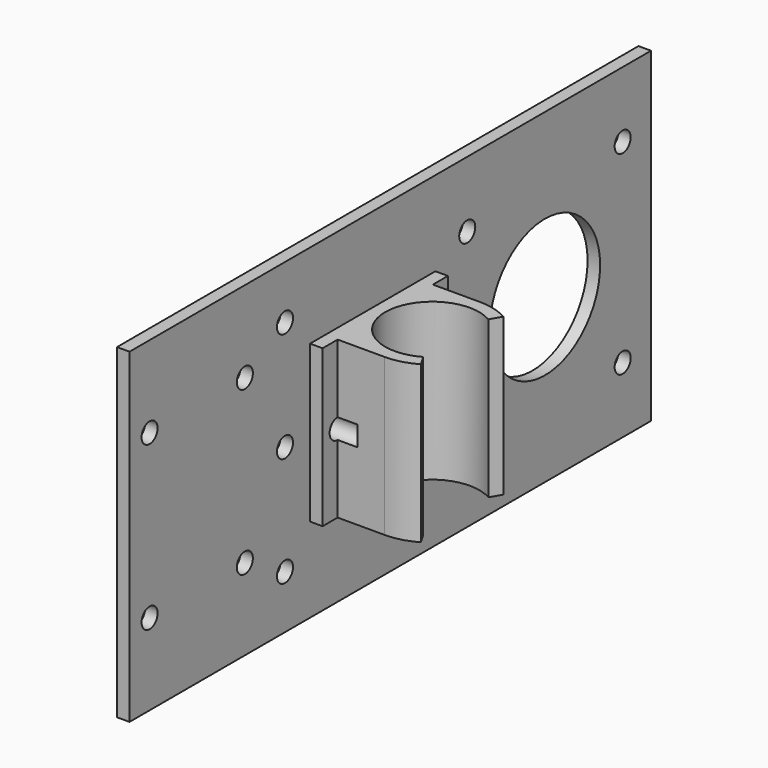
from build123d import *

# Parameters (mm, degrees)
F5_DEPTH = 12.5
F6_R     = 1.6
F7_DEPTH = 5.2
F4_R     = 1.6
F4_R_2   = 11
F8_DEPTH = 2


with BuildPart() as f5:
    # F1 (on Top) → F5 (new body, symmetric)
    with BuildSketch(Plane.XY):
        with BuildLine():
            Line((-20, 30), (-20, 17.5))
            Line((-20, 17.5), (-20, 5))
            Line((-20, 5), (-18, 5))
            Line((-18, 5), (-18, 8))
            Line((-18, 8), (-10.5, 8))
            ThreePointArc((-10.5, 8), (-8.0412190715, 8.3237046503), (-5.75, 9.272758664))
            Line((-5.75, 9.272758664), (-6.75, 11.0048094716))
            ThreePointArc((-6.75, 11.0048094716), (-14.25, 11.0048094716), (-18, 17.5))
            ThreePointArc((-18, 17.5), (-14.25, 23.9951905284), (-6.75, 23.9951905284))
            Line((-6.75, 23.9951905284), (-5.75, 25.727241336))
            ThreePointArc((-5.75, 25.727241336), (-8.0412190715, 26.6762953497), (-10.5, 27))
            Line((-10.5, 27), (-18, 27))
            Line((-18, 27), (-18, 30))
            Line((-18, 30), (-20, 30))
        make_face()
    extrude(amount=F5_DEPTH, both=True)

    # F6 (on face) → F7 (cut)
    with BuildSketch(Plane(origin=(-20, 0, 0), x_dir=(0, -1, 0), z_dir=(-1, 0, 0))):
        with Locations((-27, 0)):
            Circle(F6_R)
        with Locations((-8, 0)):
            Circle(F6_R)
    extrude(amount=-F7_DEPTH, mode=Mode.SUBTRACT)


with BuildPart() as f8:
    # F4 (on line) → F8 (new body)
    with BuildSketch(Plane.YZ.offset(-20)):
        Polygon((30, 26), (-30, 26), (-31, 26), (-31, -26), (-30, -26), (30, -26), (73, -26), (73, 26), align=None)
        with Locations((0, -17.5)):
            Circle(F4_R, mode=Mode.SUBTRACT)
        with Locations((-27, -13)):
            Circle(F4_R, mode=Mode.SUBTRACT)
        with Locations((-8, -13)):
            Circle(F4_R, mode=Mode.SUBTRACT)
        with Locations((36.35, -15.5)):
            Circle(F4_R, mode=Mode.SUBTRACT)
        with Locations((67.35, -15.5)):
            Circle(F4_R, mode=Mode.SUBTRACT)
        Circle(F4_R, mode=Mode.SUBTRACT)
        with Locations((8, 0)):
            Circle(F4_R, mode=Mode.SUBTRACT)
        with Locations((-27, 13)):
            Circle(F4_R, mode=Mode.SUBTRACT)
        with Locations((-8, 13)):
            Circle(F4_R, mode=Mode.SUBTRACT)
        with Locations((0, 17.5)):
            Circle(F4_R, mode=Mode.SUBTRACT)
        with Locations((27, 0)):
            Circle(F4_R, mode=Mode.SUBTRACT)
        with Locations((51.85, 0)):
            Circle(F4_R_2, mode=Mode.SUBTRACT)
        with Locations((36.35, 15.5)):
            Circle(F4_R, mode=Mode.SUBTRACT)
        with Locations((67.35, 15.5)):
            Circle(F4_R, mode=Mode.SUBTRACT)
    extrude(amount=-F8_DEPTH)


solid = Compound([f5.part, f8.part])
